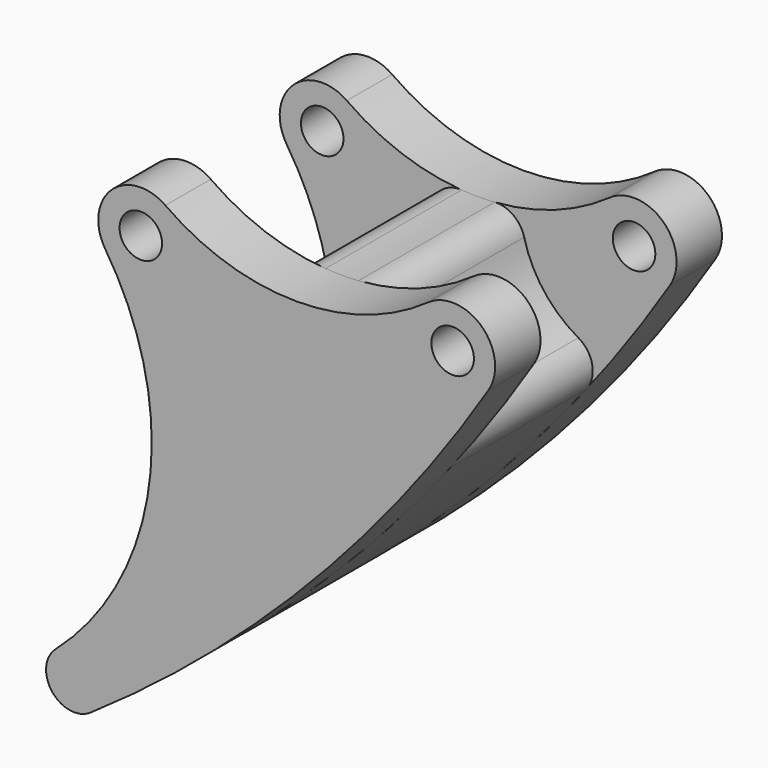
from build123d import *

# Parameters (mm, degrees)
F1_DEPTH = 4
F3_DEPTH = 6
F5_DEPTH = 2
F7_DEPTH = 7
F8_R     = 1.5
F9_DEPTH = 10.001


with BuildPart() as f1:
    # F0 (on Front) → F1 (new body)
    with BuildSketch(Plane.XZ):
        with BuildLine():
            ThreePointArc((20.263158, 2.446095), (11, -0.508067), (1.736842, 2.446095))
            ThreePointArc((1.736842, 2.446095), (-2.082163, 2.159767), (-2.507986, -1.64621))
            ThreePointArc((-2.507986, -1.64621), (0.593406, -15.288544), (-6.004354, -27.62554))
            ThreePointArc((-6.004354, -27.62554), (-6.26024, -30.354478), (-3.551962, -30.776156))
            ThreePointArc((-3.551962, -30.776156), (11.985415, -17.624993), (24.537749, -1.599947))
            ThreePointArc((24.537749, -1.599947), (24.062275, 2.178767), (20.263158, 2.446095))
        make_face()
    extrude(amount=F1_DEPTH)

    # F2 (on face) → F3 (join)
    with BuildSketch(Plane.XZ.offset(4)):
        with BuildLine():
            ThreePointArc((7.754053, -1.968417), (5.68946, -5.624059), (2.057931, -7.730777))
            ThreePointArc((2.057931, -7.730777), (0.908195, -8.554249), (0.590568, -9.932333))
            ThreePointArc((0.590568, -9.932333), (-0.487406, -19.606222), (-6.004354, -27.62554))
            ThreePointArc((-6.004354, -27.62554), (-6.26024, -30.354478), (-3.551962, -30.776156))
            ThreePointArc((-3.551962, -30.776156), (8.352605, -21.210498), (18.661792, -9.94368))
            ThreePointArc((18.661792, -9.94368), (19.049057, -8.320033), (18.069983, -6.968139))
            ThreePointArc((18.069983, -6.968139), (15.645578, -4.860177), (14.245947, -1.968417))
            ThreePointArc((14.245947, -1.968417), (13.477217, -0.838298), (12.162164, -0.465804))
            ThreePointArc((12.162164, -0.465804), (11, -0.508067), (9.837836, -0.465804))
            ThreePointArc((9.837836, -0.465804), (8.522783, -0.838298), (7.754053, -1.968417))
        make_face()
    extrude(amount=F3_DEPTH)

    # F4 (on face) → F5 (cut)
    with BuildSketch(Plane.XZ.offset(10)):
        with BuildLine():
            ThreePointArc((1.581491, -9.797902), (0.449618, -19.955486), (-5.343177, -28.37577))
            ThreePointArc((-5.343177, -28.37577), (-5.47112, -29.740239), (-4.116981, -29.951078))
            ThreePointArc((-4.116981, -29.951078), (7.66854, -20.481077), (17.874636, -9.326927))
            ThreePointArc((17.874636, -9.326927), (18.068268, -8.515104), (17.578731, -7.839157))
            ThreePointArc((17.578731, -7.839157), (14.851275, -5.467699), (13.276691, -2.214469))
            ThreePointArc((13.276691, -2.214469), (12.892325, -1.649409), (12.234799, -1.463162))
            ThreePointArc((12.234799, -1.463162), (11, -1.508067), (9.765201, -1.463162))
            ThreePointArc((9.765201, -1.463162), (9.107675, -1.649409), (8.723309, -2.214469))
            ThreePointArc((8.723309, -2.214469), (6.400643, -6.327067), (2.315173, -8.697125))
            ThreePointArc((2.315173, -8.697125), (1.740304, -9.108861), (1.581491, -9.797902))
        make_face()
    extrude(amount=-F5_DEPTH, mode=Mode.SUBTRACT)

    # F6 (on face) → F7 (cut)
    with BuildSketch(Plane.XZ.offset(8)):
        with BuildLine():
            ThreePointArc((-4.682, -29.126), (6.984475, -19.751655), (17.087479, -8.710174))
            ThreePointArc((17.087479, -8.710174), (14.056973, -6.075221), (12.307434, -2.460521))
            ThreePointArc((12.307434, -2.460521), (11, -2.508067), (9.692566, -2.460521))
            ThreePointArc((9.692566, -2.460521), (7.111825, -7.030074), (2.572414, -9.663472))
            ThreePointArc((2.572414, -9.663472), (1.386642, -20.30475), (-4.682, -29.126))
        make_face()
    extrude(amount=-F7_DEPTH, mode=Mode.SUBTRACT)

    # F8 (on Front) → F9 (cut, through all)
    with BuildSketch(Plane.XZ):
        Circle(F8_R)
        with Locations((22, 0)):
            Circle(F8_R)
    extrude(amount=F9_DEPTH, mode=Mode.SUBTRACT)

    # F10: F1 across face


with BuildPart() as f1_1:
    add(f1.part)
    add(f1.part.mirror(Plane(origin=(5.783176, -10, -15.645769), x_dir=(1, 0, 0), z_dir=(0, -1, 0))))


solid = f1_1.part
